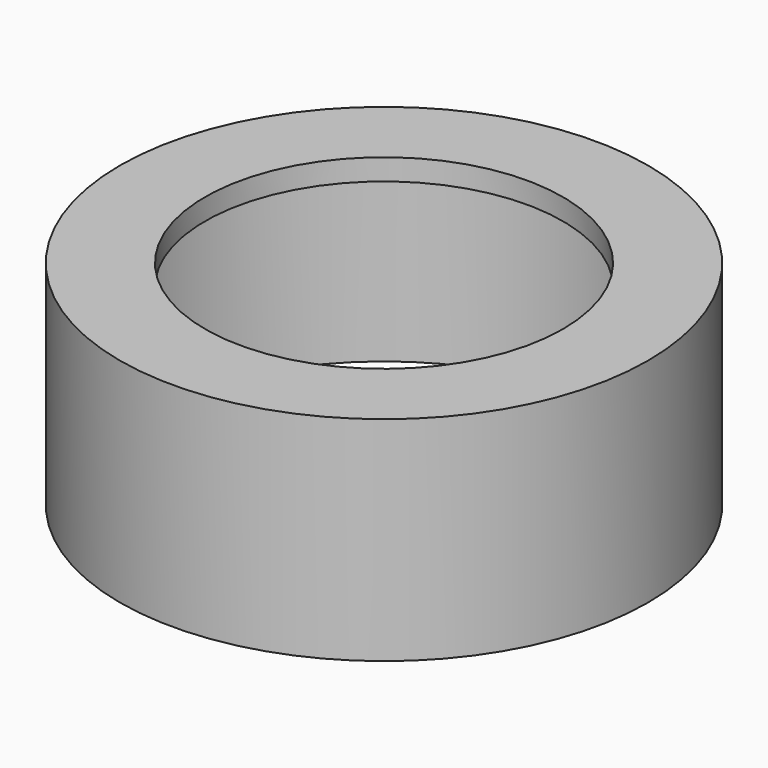
from build123d import *

# Parameters (mm, degrees)
SKETCH032_R     = 12.4
PAD022_DEPTH    = 10
SKETCH033_R     = 11.4
POCKET009_DEPTH = 9
SKETCH034_R     = 8.4
POCKET010_DEPTH = 5


with BuildPart() as part:
    # Sketch032 → Pad022 (new body)
    with BuildSketch(Plane.XY):
        with Locations((0, 18)):
            Circle(SKETCH032_R)
    extrude(amount=PAD022_DEPTH)

    # Sketch033 (on Face2 of Pad022) → Pocket009 (cut)
    with BuildSketch(Plane(origin=(0, 0, 0), x_dir=(1, 0, 0), z_dir=(0, 0, -1))):
        with Locations((0, -18)):
            Circle(SKETCH033_R)
    extrude(amount=-POCKET009_DEPTH, mode=Mode.SUBTRACT)

    # Sketch034 (on Face5 of Pocket009) → Pocket010 (cut)
    with BuildSketch(Plane(origin=(0, 0, 9), x_dir=(1, 0, 0), z_dir=(0, 0, -1))):
        with Locations((0, -18)):
            Circle(SKETCH034_R)
    extrude(amount=-POCKET010_DEPTH, mode=Mode.SUBTRACT)


with BuildPart() as part_1:
    # Body039 placement: moved
    add(part.part.moved(Location((0, 0, 11))))


solid = part_1.part
